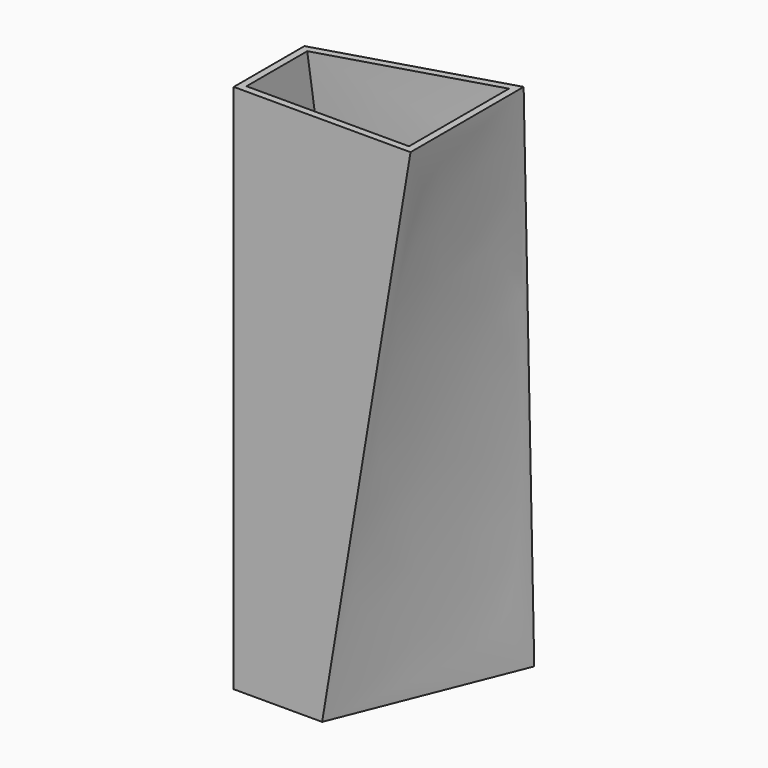
from build123d import *

# Parameters (mm, degrees)
F4_T = -4


with BuildPart() as f3:
    # F2 (on offset) → F3 section 0
    with BuildSketch(Plane.XY.offset(300)):
        Polygon((0, 50), (0, 0), (100, 0), (100, 80), align=None)
    # F0 (on Top) → F3 section 1
    with BuildSketch(Plane.XY):
        Polygon((0, 100), (0, 0), (50, 0), (90, 100), align=None)
    loft()

    # F4
    f4_openings = [f3.faces().sort_by_distance(p)[0] for p in [
        (53.846154, 33.076923, 300),
    ]]
    offset(amount=F4_T, openings=f4_openings)


solid = f3.part
